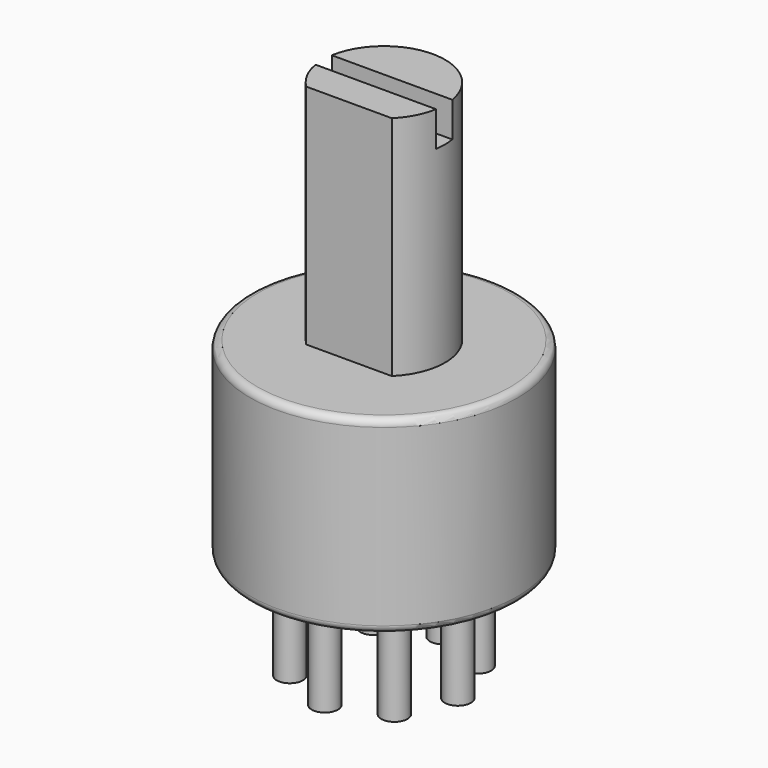
from build123d import *

# Parameters (mm, degrees)
SKETCH_R        = 4.6
PAD_DEPTH       = 6.5
SKETCH001_R     = 0.45
PAD001_DEPTH    = 3.5
SKETCH002_R     = 2.1
PAD002_DEPTH    = 7.8
POCKET_DEPTH    = 1.2
SKETCH004_W     = 4.141256
SKETCH004_H     = 0.6
POCKET001_DEPTH = 7.8
FILLET_R        = 0.25


with BuildPart() as part:
    # Sketch → Pad (new body)
    with BuildSketch(Plane.XY):
        Circle(SKETCH_R)
    extrude(amount=PAD_DEPTH)

    # Sketch001 (on Face2 of Pad) → Pad001 (join)
    with BuildSketch(Plane(origin=(0, 0, 0), x_dir=(1, 0, 0), z_dir=(0, 0, -1))):
        with Locations((2.54, 0)):
            Circle(SKETCH001_R)
        with Locations((1.796051, 1.796051)):
            Circle(SKETCH001_R)
        with Locations((0, 2.54)):
            Circle(SKETCH001_R)
        with Locations((-1.796051, 1.796051)):
            Circle(SKETCH001_R)
        with Locations((-2.54, 0)):
            Circle(SKETCH001_R)
        with Locations((-1.796051, -1.796051)):
            Circle(SKETCH001_R)
        with Locations((0, -2.54)):
            Circle(SKETCH001_R)
        with Locations((1.796051, -1.796051)):
            Circle(SKETCH001_R)
    extrude(amount=PAD001_DEPTH)

    # Sketch002 (on Face3 of Pad001) → Pad002 (join)
    with BuildSketch(Plane.XY.offset(6.5)):
        Circle(SKETCH002_R)
    extrude(amount=PAD002_DEPTH)

    # Sketch003 (on Face21 of Pad002) → Pocket (cut)
    with BuildSketch(Plane.XY.offset(14.3)):
        with BuildLine():
            Line((-2.070628, -0.35), (2.070628, -0.35))
            ThreePointArc((2.070628, -0.35), (2.1, 0), (2.070628, 0.35))
            Line((2.070628, 0.35), (-2.070628, 0.35))
            ThreePointArc((-2.070628, 0.35), (-2.1, 0), (-2.070628, -0.35))
        make_face()
    extrude(amount=-POCKET_DEPTH, mode=Mode.SUBTRACT)

    # Sketch004 (on Face23 of Pocket) → Pocket001 (cut)
    with BuildSketch(Plane.XY.offset(14.3)):
        with Locations((0, -1.8)):
            Rectangle(SKETCH004_W, SKETCH004_H)
    extrude(amount=-POCKET001_DEPTH, mode=Mode.SUBTRACT)

    # Fillet
    fillet_edges = [part.edges().sort_by_distance(p)[0] for p in [
        (-4.6, 0, 6.5),
        (-4.6, 0, 0),
    ]]
    fillet(fillet_edges, radius=FILLET_R)


solid = part.part
